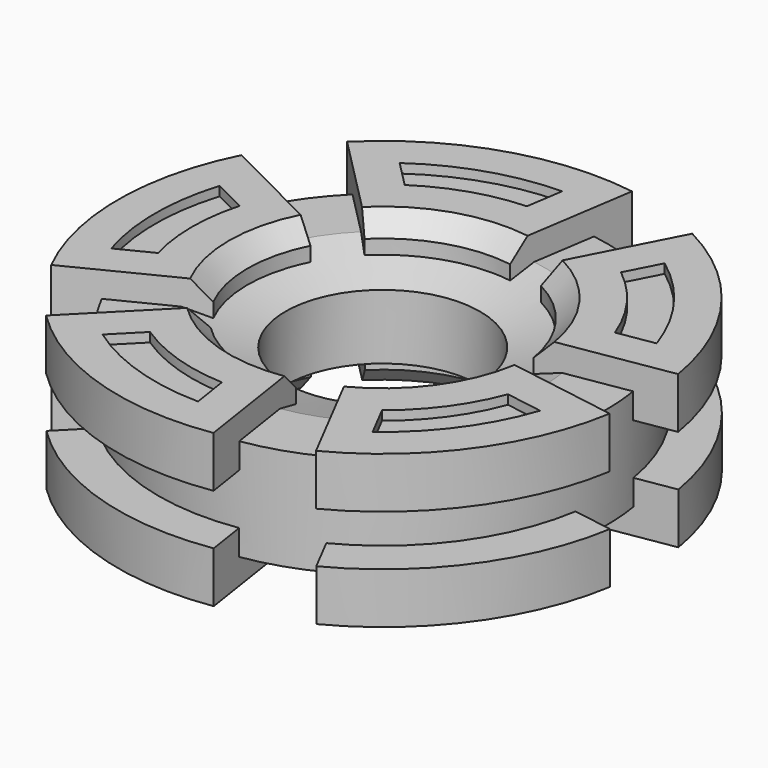
from build123d import *

# Parameters (mm, degrees)
F0_R      = 24.2159999907
F0_R_2    = 10.5
F1_DEPTH  = 11
F2_SIZE2  = 6.858
F2_SIZE   = 2
F3_SIZE2  = 2
F3_SIZE   = 6.858
F5_DEPTH  = 2.75
F6_SIZE   = 2
F7_SIZE   = 2
F9_DEPTH  = 2.75
F10_SIZE  = 2
F12_DEPTH = 1
F14_DEPTH = 1


with BuildPart() as f1:
    # F0 (on Top) → F1 (new body)
    with BuildSketch(Plane.XY):
        Circle(F0_R)
        Circle(F0_R_2, mode=Mode.SUBTRACT)
    extrude(amount=F1_DEPTH)

    # F2
    f2_edges = [f1.edges().sort_by_distance(p)[0] for p in [
        (-10.5, 0, 11),
    ]]
    f2_side = f1.faces().sort_by_distance((-10.5, 0, 5.5))[0]
    chamfer(f2_edges, length=F2_SIZE, length2=F2_SIZE2, reference=f2_side)

    # F3
    f3_edges = [f1.edges().sort_by_distance(p)[0] for p in [
        (-10.5, 0, 0),
    ]]
    f3_side = f1.faces().sort_by_distance((-23.531068, 0, 0))[0]
    chamfer(f3_edges, length=F3_SIZE, length2=F3_SIZE2, reference=f3_side)

    # F4 (on face) → F5 (join, symmetric)
    with BuildSketch(Plane.XY.offset(11)):
        with BuildLine():
            Line((-13.0483195583, 6.5610503507), (-25.529320875, 12.8368376426))
            ThreePointArc((-25.529320875, 12.8368376426), (-28.575, 0), (-25.529320875, -12.8368376426))
            Line((-25.529320875, -12.8368376426), (-13.0483195583, -6.5610503507))
            ThreePointArc((-13.0483195583, -6.5610503507), (-14.605, 0), (-13.0483195583, 6.5610503507))
        make_face()
        with BuildLine():
            ThreePointArc((-20.0975520938, -20.3130259891), (-8.8301606143, -27.1764399531), (4.3195640834, -28.2466279603))
            Line((4.3195640834, -28.2466279603), (2.2077771982, -14.4371654019))
            ThreePointArc((2.2077771982, -14.4371654019), (-4.5131932028, -13.8901804205), (-10.2720821813, -10.3822132833))
            Line((-10.2720821813, -10.3822132833), (-20.0975520938, -20.3130259891))
        make_face()
        with BuildLine():
            ThreePointArc((13.1083505903, -25.3909781183), (23.1176606143, -16.7959635843), (28.1989582951, -4.6205385044))
            Line((28.1989582951, -4.6205385044), (14.4128009064, -2.3616085689))
            ThreePointArc((14.4128009064, -2.3616085689), (11.8156932028, -8.5846036097), (6.699823635, -12.9776110382))
            Line((6.699823635, -12.9776110382), (13.1083505903, -25.3909781183))
        make_face()
        with BuildLine():
            ThreePointArc((28.1989582951, 4.6205385044), (23.1176606143, 16.7959635843), (13.1083505903, 25.3909781183))
            Line((13.1083505903, 25.3909781183), (6.699823635, 12.9776110382))
            ThreePointArc((6.699823635, 12.9776110382), (11.8156932028, 8.5846036097), (14.4128009064, 2.3616085689))
            Line((14.4128009064, 2.3616085689), (28.1989582951, 4.6205385044))
        make_face()
        with BuildLine():
            ThreePointArc((4.3195640834, 28.2466279603), (-8.8301606143, 27.1764399531), (-20.0975520938, 20.3130259891))
            Line((-20.0975520938, 20.3130259891), (-10.2720821813, 10.3822132833))
            ThreePointArc((-10.2720821813, 10.3822132833), (-4.5131932028, 13.8901804205), (2.2077771982, 14.4371654019))
            Line((2.2077771982, 14.4371654019), (4.3195640834, 28.2466279603))
        make_face()
    extrude(amount=F5_DEPTH, both=True)

    # F6
    f6_edges = [f1.edges().sort_by_distance(p)[0] for p in [
        (-4.513193, 13.89018, 13.75),
    ]]
    chamfer(f6_edges, length=F6_SIZE)

    # F7
    f7_edges = [f1.edges().sort_by_distance(p)[0] for p in [
        (-14.605, 0, 13.75),
        (-4.513193, -13.89018, 13.75),
        (11.815693, -8.584604, 13.75),
        (11.815693, 8.584604, 13.75),
    ]]
    chamfer(f7_edges, length=F7_SIZE)

    # F8 (on face) → F9 (join, symmetric)
    with BuildSketch(Plane(origin=(0, 0, 0), x_dir=(1, 0, 0), z_dir=(0, 0, -1))):
        with BuildLine():
            Line((-13.0654761563, 6.5012311073), (-25.546477473, 12.7770183993))
            ThreePointArc((-25.546477473, 12.7770183993), (-28.592156598, -0.0598192434), (-25.546477473, -12.896656886))
            Line((-25.546477473, -12.896656886), (-13.0654761563, -6.620869594))
            ThreePointArc((-13.0654761563, -6.620869594), (-14.622156598, -0.0598192434), (-13.0654761563, 6.5012311073))
        make_face()
        with BuildLine():
            ThreePointArc((-20.1147086918, -20.3728452325), (-8.8473172123, -27.2362591965), (4.3024074854, -28.3064472037))
            Line((4.3024074854, -28.3064472037), (2.1906206002, -14.4969846453))
            ThreePointArc((2.1906206002, -14.4969846453), (-4.5303498008, -13.9499996638), (-10.2892387793, -10.4420325267))
            Line((-10.2892387793, -10.4420325267), (-20.1147086918, -20.3728452325))
        make_face()
        with BuildLine():
            ThreePointArc((13.0911939923, -25.4507973616), (23.1005040163, -16.8557828276), (28.1818016971, -4.6803577478))
            Line((28.1818016971, -4.6803577478), (14.3956443084, -2.4214278123))
            ThreePointArc((14.3956443084, -2.4214278123), (11.7985366049, -8.6444228531), (6.6826670371, -13.0374302816))
            Line((6.6826670371, -13.0374302816), (13.0911939923, -25.4507973616))
        make_face()
        with BuildLine():
            ThreePointArc((28.1818016971, 4.5607192611), (23.1005040163, 16.7361443409), (13.0911939923, 25.3311588749))
            Line((13.0911939923, 25.3311588749), (6.6826670371, 12.9177917949))
            ThreePointArc((6.6826670371, 12.9177917949), (11.7985366049, 8.5247843664), (14.3956443084, 2.3017893256))
            Line((14.3956443084, 2.3017893256), (28.1818016971, 4.5607192611))
        make_face()
        with BuildLine():
            ThreePointArc((4.3024074854, 28.186808717), (-8.8473172123, 27.1166207098), (-20.1147086918, 20.2532067458))
            Line((-20.1147086918, 20.2532067458), (-10.2892387793, 10.32239404))
            ThreePointArc((-10.2892387793, 10.32239404), (-4.5303498008, 13.8303611771), (2.1906206002, 14.3773461586))
            Line((2.1906206002, 14.3773461586), (4.3024074854, 28.186808717))
        make_face()
    extrude(amount=F9_DEPTH, both=True)

    # F10
    f10_edges = [f1.edges().sort_by_distance(p)[0] for p in [
        (-4.53035, -13.830361, -2.75),
        (-14.622157, 0.059819, -2.75),
        (-4.53035, 13.95, -2.75),
        (11.798537, 8.644423, -2.75),
        (11.798537, -8.524784, -2.75),
    ]]
    chamfer(f10_edges, length=F10_SIZE)

    # F11 (on face) → F12 (cut)
    with BuildSketch(Plane.XY.offset(13.75)):
        with BuildLine():
            Line((-19.855535527, 5.5066990053), (-23.4598061883, 7.31902443))
            ThreePointArc((-23.4598061883, 7.31902443), (-24.575, 0), (-23.4598061883, -7.31902443))
            Line((-23.4598061883, -7.31902443), (-19.855535527, -5.5066990053))
            ThreePointArc((-19.855535527, -5.5066990053), (-20.605, 0), (-19.855535527, 5.5066990053))
        make_face()
        with BuildLine():
            Line((-11.3728798825, -17.182072872), (-14.210284674, -20.0498986153))
            ThreePointArc((-14.210284674, -20.0498986153), (-7.5940926368, -23.372213888), (-0.2886729198, -24.5733044775))
            Line((-0.2886729198, -24.5733044775), (-0.898515938, -20.5854000231))
            ThreePointArc((-0.898515938, -20.5854000231), (-6.3672951691, -19.5965195183), (-11.3728798825, -17.182072872))
        make_face()
        with BuildLine():
            Line((12.8267092097, -16.1258040373), (14.6773672699, -19.7105432453))
            ThreePointArc((14.6773672699, -19.7105432453), (19.8815926368, -14.4448225751), (23.2813965122, -7.868112953))
            Line((23.2813965122, -7.868112953), (19.3002221379, -7.215777881))
            ThreePointArc((19.3002221379, -7.215777881), (16.6697951691, -12.1113151235), (12.8267092097, -16.1258040373))
        make_face()
        with BuildLine():
            Line((19.3002221379, 7.215777881), (23.2813965122, 7.868112953))
            ThreePointArc((23.2813965122, 7.868112953), (19.8815926368, 14.4448225751), (14.6773672699, 19.7105432453))
            Line((14.6773672699, 19.7105432453), (12.8267092097, 16.1258040373))
            ThreePointArc((12.8267092097, 16.1258040373), (16.6697951691, 12.1113151235), (19.3002221379, 7.215777881))
        make_face()
        with BuildLine():
            Line((-0.898515938, 20.5854000231), (-0.2886729198, 24.5733044775))
            ThreePointArc((-0.2886729198, 24.5733044775), (-7.5940926368, 23.372213888), (-14.210284674, 20.0498986153))
            Line((-14.210284674, 20.0498986153), (-11.3728798825, 17.182072872))
            ThreePointArc((-11.3728798825, 17.182072872), (-6.3672951691, 19.5965195183), (-0.898515938, 20.5854000231))
        make_face()
    extrude(amount=-F12_DEPTH, mode=Mode.SUBTRACT)

    # F13 (on face) → F14 (cut)
    with BuildSketch(Plane(origin=(0, 0, -2.75), x_dir=(1, 0, 0), z_dir=(0, 0, -1))):
        with BuildLine():
            Line((-19.7355560473, 5.5305098596), (-23.3398267085, 7.3428352844))
            ThreePointArc((-23.3398267085, 7.3428352844), (-24.4550205202, 0.0238108543), (-23.3398267085, -7.2952135757))
            Line((-23.3398267085, -7.2952135757), (-19.7355560473, -5.4828881509))
            ThreePointArc((-19.7355560473, -5.4828881509), (-20.4850205202, 0.0238108543), (-19.7355560473, 5.5305098596))
        make_face()
        with BuildLine():
            Line((-11.2529004027, -17.1582620176), (-14.0903051943, -20.0260877609))
            ThreePointArc((-14.0903051943, -20.0260877609), (-7.474113157, -23.3484030336), (-0.16869344, -24.5494936232))
            Line((-0.16869344, -24.5494936232), (-0.7785364582, -20.5615891687))
            ThreePointArc((-0.7785364582, -20.5615891687), (-6.2473156893, -19.5727086639), (-11.2529004027, -17.1582620176))
        make_face()
        with BuildLine():
            Line((12.9466886895, -16.101993183), (14.7973467497, -19.6867323909))
            ThreePointArc((14.7973467497, -19.6867323909), (20.0015721165, -14.4210117207), (23.401375992, -7.8443020986))
            Line((23.401375992, -7.8443020986), (19.4202016177, -7.1919670266))
            ThreePointArc((19.4202016177, -7.1919670266), (16.7897746489, -12.0875042691), (12.9466886895, -16.101993183))
        make_face()
        with BuildLine():
            Line((19.4202016177, 7.2395887353), (23.401375992, 7.8919238073))
            ThreePointArc((23.401375992, 7.8919238073), (20.0015721165, 14.4686334294), (14.7973467497, 19.7343540996))
            Line((14.7973467497, 19.7343540996), (12.9466886895, 16.1496148917))
            ThreePointArc((12.9466886895, 16.1496148917), (16.7897746489, 12.1351259778), (19.4202016177, 7.2395887353))
        make_face()
        with BuildLine():
            Line((-0.7785364582, 20.6092108774), (-0.16869344, 24.5971153319))
            ThreePointArc((-0.16869344, 24.5971153319), (-7.474113157, 23.3960247423), (-14.0903051943, 20.0737094696))
            Line((-14.0903051943, 20.0737094696), (-11.2529004027, 17.2058837263))
            ThreePointArc((-11.2529004027, 17.2058837263), (-6.2473156893, 19.6203303726), (-0.7785364582, 20.6092108774))
        make_face()
    extrude(amount=-F14_DEPTH, mode=Mode.SUBTRACT)


solid = f1.part
